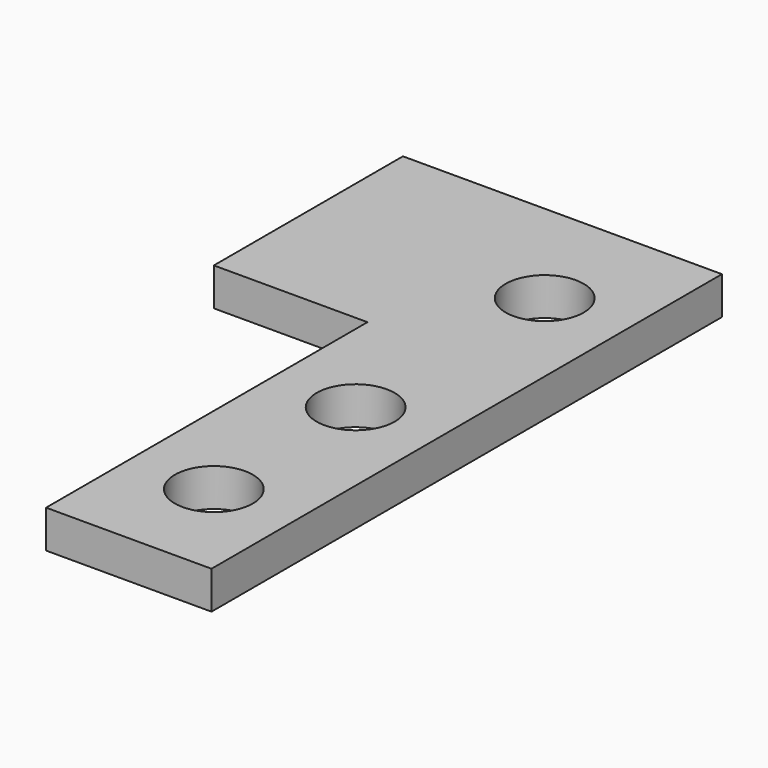
from build123d import *

# Parameters (mm, degrees)
SKETCH_R  = 1.65
PAD_DEPTH = 1.6


with BuildPart() as part:
    # Sketch → Pad (new body)
    with BuildSketch(Plane.XY):
        Polygon((3.5, 5), (3.5, -22), (-3.5, -22), (-3.5, -5), (-10, -5), (-10, 5), align=None)
        Circle(SKETCH_R, mode=Mode.SUBTRACT)
        with Locations((0, -10)):
            Circle(SKETCH_R, mode=Mode.SUBTRACT)
        with Locations((0, -17.5)):
            Circle(SKETCH_R, mode=Mode.SUBTRACT)
    extrude(amount=PAD_DEPTH)


solid = part.part
